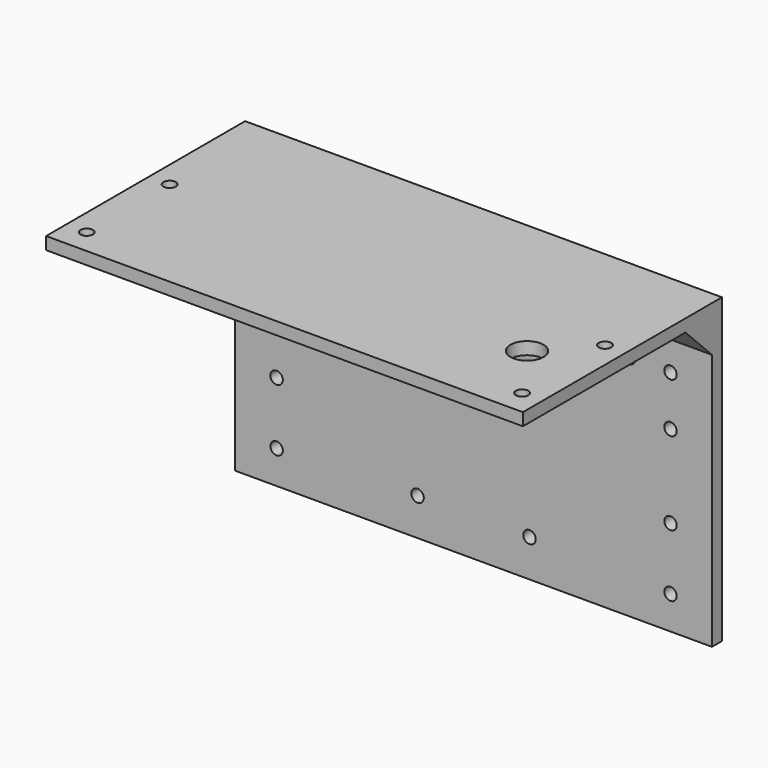
from build123d import *

# Parameters (mm, degrees)
SKETCH_W        = 115
SKETCH_H        = 60
PAD_DEPTH       = 3
SKETCH001_R     = 1.5
POCKET_DEPTH    = 5
SKETCH002_R     = 4
POCKET001_DEPTH = 5
SKETCH003_W     = 115
SKETCH003_H     = 3
PAD001_DEPTH    = 70
SKETCH004_R     = 1.5
POCKET002_DEPTH = 5
PAD002_DEPTH    = 115
SKETCH007_R     = 1.5
POCKET003_DEPTH = 5


with BuildPart() as part:
    # Sketch → Pad (new body)
    with BuildSketch(Plane.XY):
        with Locations((-57.5, 30)):
            Rectangle(SKETCH_W, SKETCH_H)
    extrude(amount=PAD_DEPTH)

    # Sketch001 → Pocket (cut)
    with BuildSketch(Plane.XY.offset(3)):
        with Locations((-5, 31)):
            Circle(SKETCH001_R)
        with Locations((-110, 31)):
            Circle(SKETCH001_R)
        with Locations((-110, 6)):
            Circle(SKETCH001_R)
        with Locations((-5, 6)):
            Circle(SKETCH001_R)
    extrude(amount=-POCKET_DEPTH, mode=Mode.SUBTRACT)

    # Sketch002 → Pocket001 (cut)
    with BuildSketch(Plane.XY.offset(3)):
        with Locations((-15, 20)):
            Circle(SKETCH002_R)
    extrude(amount=-POCKET001_DEPTH, mode=Mode.SUBTRACT)

    # Sketch003 → Pad001 (new body)
    with BuildSketch(Plane(origin=(0, 0, 0), x_dir=(1, 0, 0), z_dir=(0, 0, -1))):
        with Locations((-57.5, -58.5)):
            Rectangle(SKETCH003_W, SKETCH003_H)
    extrude(amount=PAD001_DEPTH)

    # Sketch004 → Pocket002 (cut)
    with BuildSketch(Plane.XZ.offset(-57)):
        with Locations((-71, -30)):
            Circle(SKETCH004_R)
        with Locations((-44, -30)):
            Circle(SKETCH004_R)
        with Locations((-71, -61)):
            Circle(SKETCH004_R)
        with Locations((-44, -61)):
            Circle(SKETCH004_R)
    extrude(amount=-POCKET002_DEPTH, mode=Mode.SUBTRACT)

    # Sketch006 → Pad002 (new body)
    with BuildSketch(Plane.YZ):
        Polygon((57, 0), (57, -8), (49, 0), align=None)
    extrude(amount=-PAD002_DEPTH)

    # Sketch007 → Pocket003 (cut)
    with BuildSketch(Plane.XZ.offset(-57)):
        with Locations((-105, -15)):
            Circle(SKETCH007_R)
        with Locations((-105, -27)):
            Circle(SKETCH007_R)
        with Locations((-105, -47)):
            Circle(SKETCH007_R)
        with Locations((-105, -62)):
            Circle(SKETCH007_R)
        with Locations((-10, -15)):
            Circle(SKETCH007_R)
        with Locations((-10, -27)):
            Circle(SKETCH007_R)
        with Locations((-10, -47)):
            Circle(SKETCH007_R)
        with Locations((-10, -62)):
            Circle(SKETCH007_R)
        with BuildLine():
            ThreePointArc((-95, -13.5), (-96.5, -15), (-95, -16.5))
            Line((-95, -16.5), (-20, -16.5))
            ThreePointArc((-20, -16.5), (-18.5, -15), (-20, -13.5))
            Line((-95, -13.5), (-20, -13.5))
        make_face()
    extrude(amount=-POCKET003_DEPTH, mode=Mode.SUBTRACT)


solid = part.part
